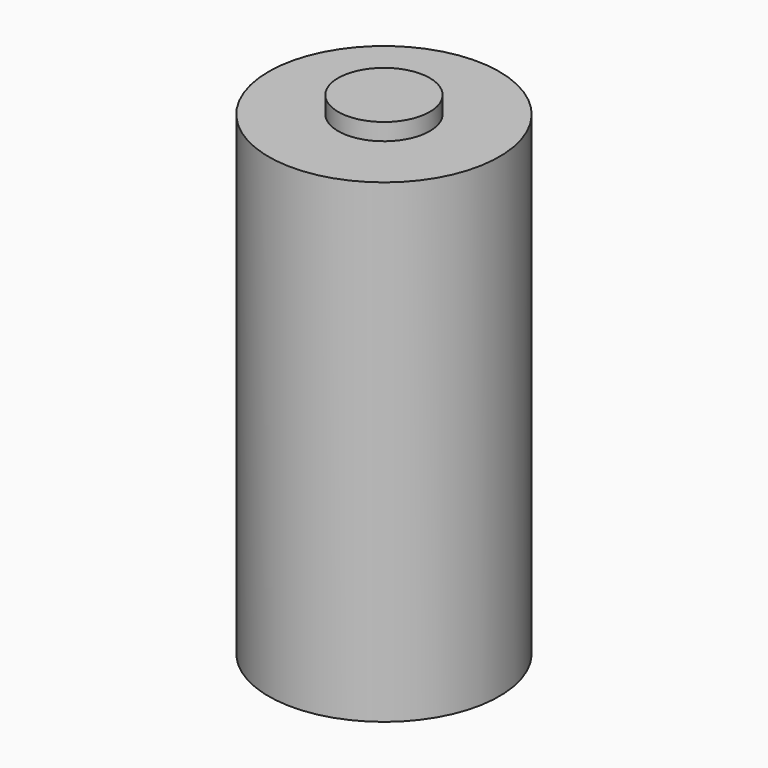
from build123d import *

# Parameters (mm, degrees)
F0_W     = 17.2720011324
F0_H     = 71.1200013757
F2_R     = 6.8627021691
F3_DEPTH = 2.54


with BuildPart() as f1:
    # F0 (on Front) → F1 (revolve)
    with BuildSketch(Plane.XZ):
        with Locations((-8.6360005662, 1.0159984231)):
            Rectangle(F0_W, F0_H)
    revolve(axis=Axis((0, 0, 1.1429991573), (0, 0, -1)))

    # F2 (on face) → F3 (join)
    with BuildSketch(Plane.XY.offset(36.5759991109)):
        Circle(F2_R)
    extrude(amount=F3_DEPTH)


solid = f1.part
